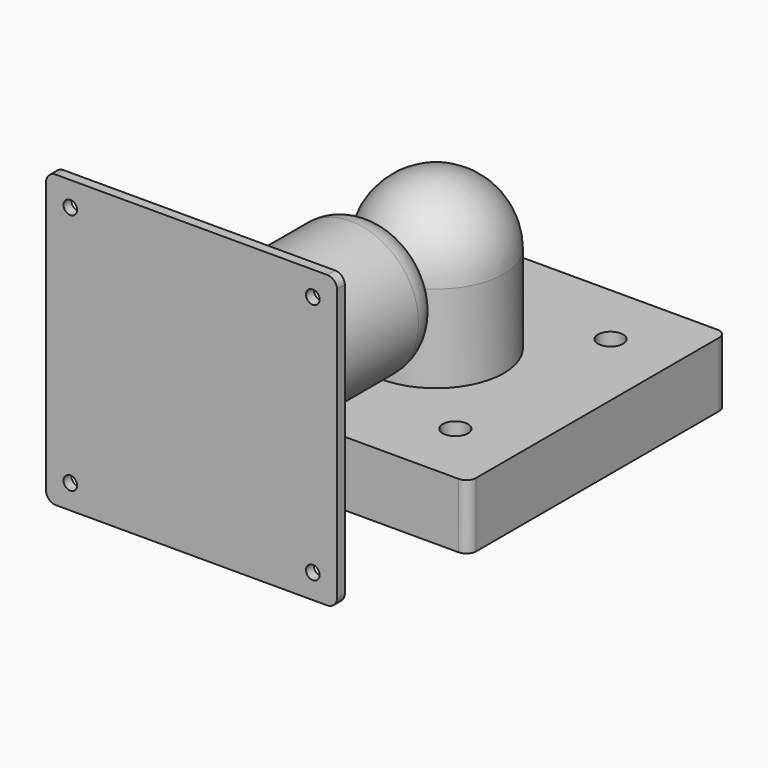
from build123d import *

# Parameters (mm, degrees)
F0_W          = 100
F0_H          = 100
F1_DEPTH      = 20
F2_R          = 21
F3_DEPTH      = 48
F4_R          = 21
F5_R          = 10
F6_DEPTH      = 41
F7_R          = 21
F8_DEPTH      = 53.5
F8_DEPTH_BACK = 18
F9_R          = 10
F10_W         = 60
F10_H         = 60
F11_DEPTH     = 15
F12_W         = 90
F12_H         = 90
F13_DEPTH     = 3
F15_D         = 4.2
F15_DEPTH     = 10
F15_TIP       = 1.2618073
F17_D         = 7.8
F18_R         = 3


with BuildPart() as f1:
    # F0 (on Top) → F1 (new body)
    with BuildSketch(Plane.XY):
        Rectangle(F0_W, F0_H)
    extrude(amount=F1_DEPTH)

    # F2 (on face) → F3 (join)
    with BuildSketch(Plane.XY.offset(20)):
        Circle(F2_R)
    extrude(amount=F3_DEPTH)

    # F4
    f4_edges = [f1.edges().sort_by_distance(p)[0] for p in [
        (-21, 0, 68),
    ]]
    fillet(f4_edges, radius=F4_R)

    # F5 (on Front) → F6 (join)
    with BuildSketch(Plane.XZ):
        with Locations((0, 47)):
            Circle(F5_R)
    extrude(amount=F6_DEPTH)

    # F7 (on face) → F8 (join, two sides)
    with BuildSketch(Plane.XZ.offset(41)) as f8_sk:
        with Locations((0, 47)):
            Circle(F7_R)
    extrude(amount=F8_DEPTH)
    extrude(f8_sk.sketch, amount=-F8_DEPTH_BACK)

    # F9
    f9_edges = [f1.edges().sort_by_distance(p)[0] for p in [
        (-21, -23, 47),
    ]]
    fillet(f9_edges, radius=F9_R)

    # F10 (on face) → F11 (join)
    with BuildSketch(Plane.XZ.offset(94.5)):
        with Locations((0, 47)):
            Rectangle(F10_W, F10_H)
    extrude(amount=-F11_DEPTH)

    # F12 (on face) → F13 (join)
    with BuildSketch(Plane.XZ.offset(94.5)):
        with Locations((0, 47)):
            Rectangle(F12_W, F12_H)
    extrude(amount=-F13_DEPTH)

    # F15
    with Locations(Plane.XZ.offset(94.5)):
        with Locations((-37.5, 84.5), (37.5, 84.5), (37.5, 9.5), (-37.5, 9.5)):
            Hole(F15_D / 2, depth=F15_DEPTH)
            with Locations((0, 0, -(F15_DEPTH + F15_TIP / 2))):  # 118° drill point
                Cone(0, F15_D / 2, F15_TIP, mode=Mode.SUBTRACT)

    # F17 (through all)
    with Locations(Plane(origin=(0, 0, 0), x_dir=(1, 0, 0), z_dir=(0, 0, -1))):
        with Locations((-30, 30), (30, 30), (30, -30), (-30, -30)):
            Hole(F17_D / 2)

    # F18
    f18_edges = [f1.edges().sort_by_distance(p)[0] for p in [
        (-50, -50, 10),
        (-50, 50, 10),
        (50, 50, 10),
        (50, -50, 10),
        (30, -85.5, 17),
        (45, -93, 2),
        (-30, -85.5, 17),
        (-45, -93, 2),
        (-30, -85.5, 77),
        (-45, -93, 92),
        (30, -85.5, 77),
        (45, -93, 92),
    ]]
    fillet(f18_edges, radius=F18_R)


solid = f1.part
